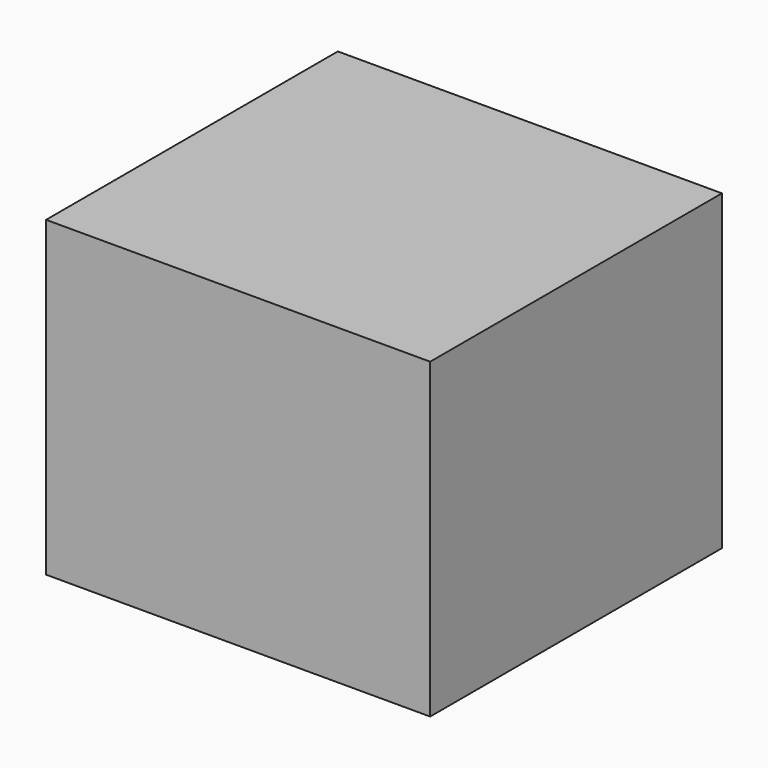
from build123d import *

# Parameters (mm, degrees)
F0_W     = 14.5917870104
F0_H     = 25.6580431014
F1_DEPTH = 19.431


with BuildPart() as f1:
    # F0 (on Front) → F1 (new body, symmetric)
    with BuildSketch(Plane.XZ):
        Polygon((26.3435635716, 25.6580431014), (7.1489955299, 25.6580431014), (26.3435635716, 6.8552019075), align=None)
        Polygon((0, 25.6580431014), (0, 0), (-14.5917870104, 0), (-14.5917870104, -7.6386532746), (26.3435635716, -7.6386532746), (26.3435635716, 6.8552019075), (7.1489955299, 25.6580431014), align=None)
        with Locations((-7.2958935052, 12.8290215507)):
            Rectangle(F0_W, F0_H)
    extrude(amount=F1_DEPTH, both=True)


solid = f1.part
